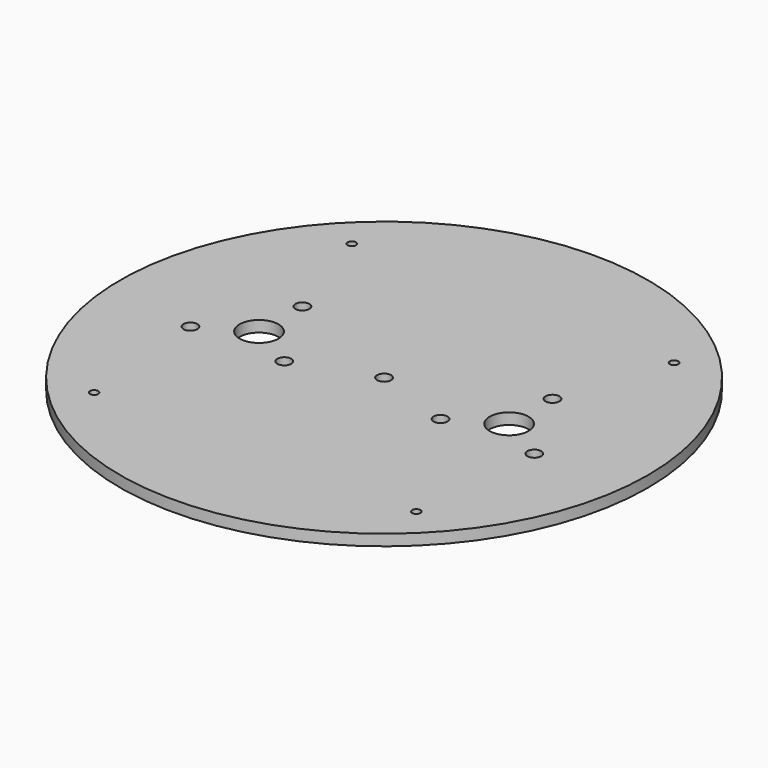
from build123d import *

# Parameters (mm, degrees)
SKETCH_R   = 95
SKETCH_R_2 = 7
SKETCH_R_3 = 1.5
SKETCH_R_4 = 2.5
PAD_DEPTH  = 4


with BuildPart() as part:
    # Sketch → Pad (new body)
    with BuildSketch(Plane.XY):
        Circle(SKETCH_R)
        with Locations((-45, 0)):
            Circle(SKETCH_R_2, mode=Mode.SUBTRACT)
        with Locations((45, 0)):
            Circle(SKETCH_R_2, mode=Mode.SUBTRACT)
        with Locations((57.982756, 57.982756)):
            Circle(SKETCH_R_3, mode=Mode.SUBTRACT)
        with Locations((-57.982756, 57.982756)):
            Circle(SKETCH_R_3, mode=Mode.SUBTRACT)
        with Locations((-57.982756, -57.982756)):
            Circle(SKETCH_R_3, mode=Mode.SUBTRACT)
        with Locations((57.982756, -57.982756)):
            Circle(SKETCH_R_3, mode=Mode.SUBTRACT)
        with Locations((-45, 19.5)):
            Circle(SKETCH_R_4, mode=Mode.SUBTRACT)
        with Locations((-28.112505, -9.75)):
            Circle(SKETCH_R_4, mode=Mode.SUBTRACT)
        with Locations((-61.887495, -9.75)):
            Circle(SKETCH_R_4, mode=Mode.SUBTRACT)
        with Locations((45, 19.5)):
            Circle(SKETCH_R_4, mode=Mode.SUBTRACT)
        with Locations((28.112505, -9.75)):
            Circle(SKETCH_R_4, mode=Mode.SUBTRACT)
        with Locations((61.887495, -9.75)):
            Circle(SKETCH_R_4, mode=Mode.SUBTRACT)
        Circle(SKETCH_R_4, mode=Mode.SUBTRACT)
    extrude(amount=PAD_DEPTH)


solid = part.part
